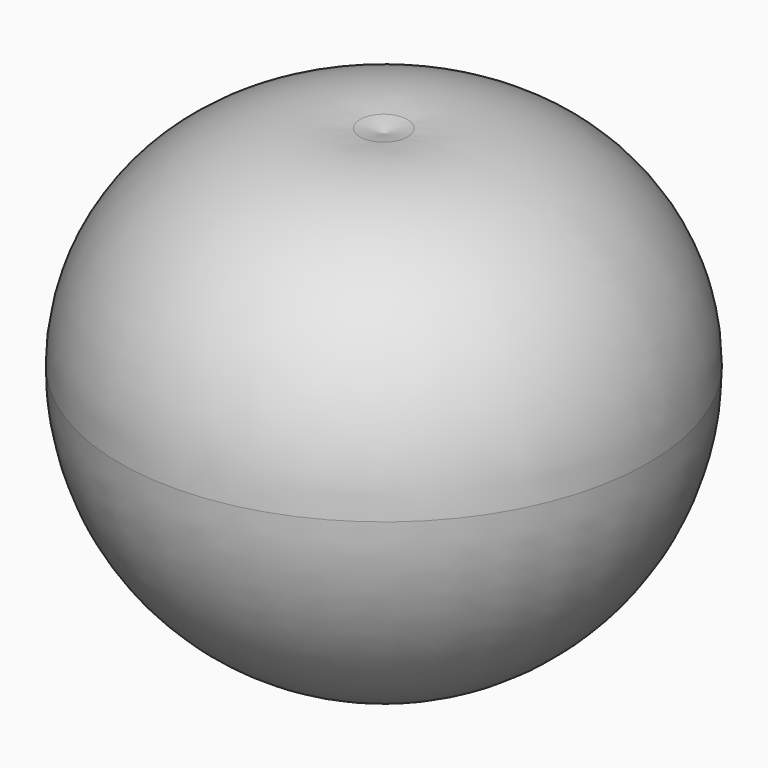
from build123d import *


with BuildPart() as f1:
    # F0 (on Front) → F1 (revolve)
    with BuildSketch(Plane.XZ):
        with BuildLine():
            ThreePointArc((3.175, -15.875), (14.40032, -11.22532), (19.05, 0))
            ThreePointArc((19.05, 0), (14.688741, 9.578904), (4.600331, 12.578897))
            ThreePointArc((4.600331, 12.578897), (3.883627, 12.45821), (3.175, 12.296722))
            Line((3.175, 12.296722), (3.175, 0))
            Line((3.175, 0), (3.175, -15.875))
        make_face()
    revolve(axis=Axis((3.175, 0, -1.789139), (0, 0, -1)))


solid = f1.part
